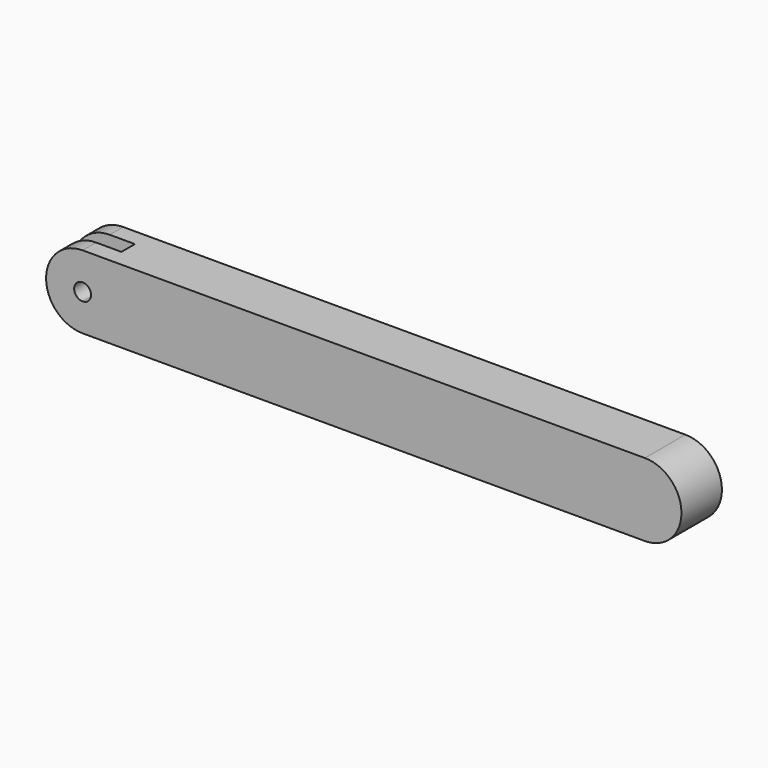
from build123d import *

# Parameters (mm, degrees)
F0_W     = 95.5
F0_H     = 1.5
F0_W_2   = 4.5
F1_DEPTH = 4.5
F2_DEPTH = 1.5


with BuildPart() as f1:
    # F0 (on Front) → F1 (new body, symmetric)
    with BuildSketch(Plane.XZ):
        with BuildLine():
            Line((50, -5), (50, -6.5))
            ThreePointArc((50, -6.5), (56.5, 0), (50, 6.5))
            Line((50, 6.5), (50, 5))
            ThreePointArc((50, 5), (55, 0), (50, -5))
        make_face()
        with Locations((2.25, 5.75)):
            Rectangle(F0_W, F0_H)
        with BuildLine():
            Line((50, 5), (50, -5))
            ThreePointArc((50, -5), (55, 0), (50, 5))
        make_face()
        with BuildLine():
            Line((-50, -6.5), (50, -6.5))
            Line((50, -6.5), (50, -5))
            Line((50, -5), (50, 5))
            Line((50, 5), (-45.5, 5))
            Line((-45.5, 5), (-50, 5))
            Line((-50, 5), (-50, 1.5))
            ThreePointArc((-50, 1.5), (-48.93934, 1.06066), (-48.5, 0))
            ThreePointArc((-48.5, 0), (-48.93934, -1.06066), (-50, -1.5))
            Line((-50, -1.5), (-50, -6.5))
        make_face()
        with BuildLine():
            ThreePointArc((-50, 6.5), (-56.5, 0), (-50, -6.5))
            Line((-50, -6.5), (-50, -1.5))
            ThreePointArc((-50, -1.5), (-51.5, 0), (-50, 1.5))
            Line((-50, 1.5), (-50, 5))
            Line((-50, 5), (-50, 6.5))
        make_face()
        with Locations((-47.75, 5.75)):
            Rectangle(F0_W_2, F0_H)
    extrude(amount=F1_DEPTH, both=True)

    # F0 (on Front) → F2 (cut, symmetric)
    with BuildSketch(Plane.XZ):
        with BuildLine():
            Line((-50, -6.5), (50, -6.5))
            Line((50, -6.5), (50, -5))
            Line((50, -5), (50, 5))
            Line((50, 5), (-45.5, 5))
            Line((-45.5, 5), (-50, 5))
            Line((-50, 5), (-50, 1.5))
            ThreePointArc((-50, 1.5), (-48.93934, 1.06066), (-48.5, 0))
            ThreePointArc((-48.5, 0), (-48.93934, -1.06066), (-50, -1.5))
            Line((-50, -1.5), (-50, -6.5))
        make_face()
        with BuildLine():
            ThreePointArc((-50, 6.5), (-56.5, 0), (-50, -6.5))
            Line((-50, -6.5), (-50, -1.5))
            ThreePointArc((-50, -1.5), (-51.5, 0), (-50, 1.5))
            Line((-50, 1.5), (-50, 5))
            Line((-50, 5), (-50, 6.5))
        make_face()
        with BuildLine():
            Line((50, 5), (50, -5))
            ThreePointArc((50, -5), (55, 0), (50, 5))
        make_face()
        with Locations((-47.75, 5.75)):
            Rectangle(F0_W_2, F0_H)
    extrude(amount=F2_DEPTH, both=True, mode=Mode.SUBTRACT)


solid = f1.part
